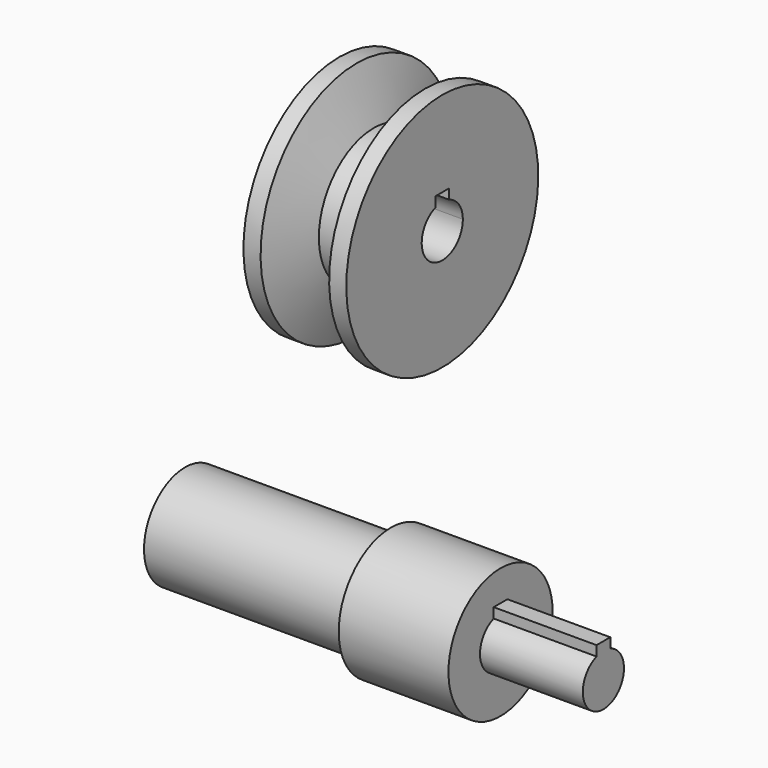
from build123d import *

# Parameters (mm, degrees)
F1_W     = 62
F1_H     = 10
F3_DEPTH = 2.5
F6_DEPTH = 15


with BuildPart() as f2:
    # F0 (on Front) → F2 (revolve)
    with BuildSketch(Plane.XZ):
        Polygon((-60, 15), (-60, 0), (0, 0), (62, 0), (62, 7.5), (32, 7.5), (32, 19), (0, 19), (0, 15), align=None)
    revolve(axis=Axis((-30, 0, 0), (-1, 0, 0)))

    # F1 (on Front) → F3 (join, symmetric)
    with BuildSketch(Plane.XZ):
        with Locations((31, 5)):
            Rectangle(F1_W, F1_H)
    extrude(amount=F3_DEPTH, both=True)


with BuildPart() as f4:
    # F0 (on Front) → F4 (revolve)
    with BuildSketch(Plane.XZ):
        Polygon((-10, 135), (-15, 135), (-15, 100), (15, 100), (15, 135), (10, 135), (5, 120), (-5, 120), align=None)
    revolve(axis=Axis((0, 0, 100), (1, 0, 0)))

    # F5 (on Right) → F6 (cut, symmetric)
    with BuildSketch(Plane.YZ):
        with BuildLine():
            ThreePointArc((-2.5, 107.071068), (-4.330127, 93.876276), (7.5, 100))
            ThreePointArc((7.5, 100), (6.123724, 104.330127), (2.5, 107.071068))
            ThreePointArc((2.5, 107.071068), (0, 107.5), (-2.5, 107.071068))
        make_face()
        with BuildLine():
            ThreePointArc((-2.5, 107.071068), (0, 107.5), (2.5, 107.071068))
            Line((2.5, 107.071068), (2.5, 110))
            Line((2.5, 110), (-2.5, 110))
            Line((-2.5, 110), (-2.5, 107.071068))
        make_face()
    extrude(amount=F6_DEPTH, both=True, mode=Mode.SUBTRACT)


solid = Compound([f2.part, f4.part])
